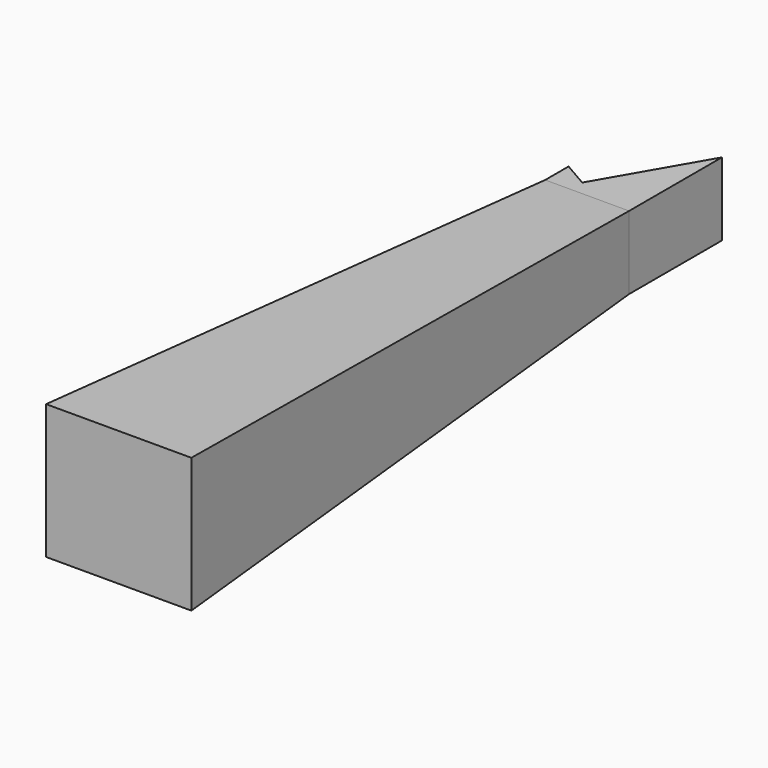
from build123d import *

# Parameters (mm, degrees)
F1_DEPTH = 25
F2_W     = 28.6602540378
F2_H     = 25
F3_DEPTH = 200
F3_TAPER = -3


with BuildPart() as f1:
    # F0 (on Top) → F1 (new body)
    with BuildSketch(Plane.XY):
        Polygon((0, 10), (0, 0), (28.6602540378, 0), (28.6602540378, 39.6410161514), (8.6602540378, 5), align=None)
    extrude(amount=F1_DEPTH)

    # F2 (on face) → F3 (join)
    with BuildSketch(Plane.XZ):
        with Locations((14.3301270189, 12.5)):
            Rectangle(F2_W, F2_H)
    extrude(amount=F3_DEPTH, taper=F3_TAPER)


solid = f1.part
